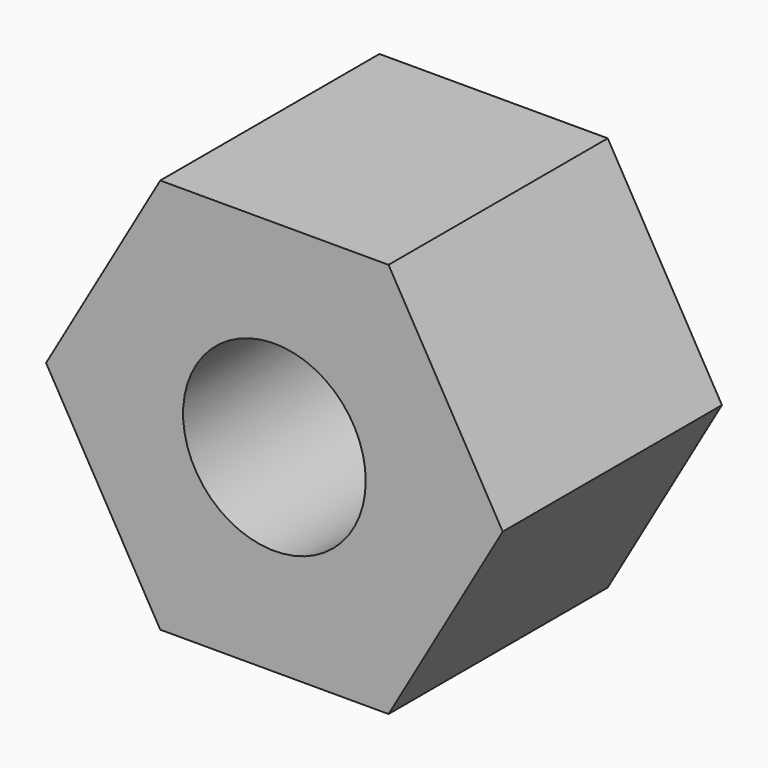
from build123d import *

# Parameters (mm, degrees)
F1_DEPTH = 19.05
F2_R     = 6.35
F3_DEPTH = 15.24


with BuildPart() as f1:
    # F0 (on Front) → F1 (new body)
    with BuildSketch(Plane.XZ):
        Polygon((7.9375, -13.748153), (15.875, 0), (7.9375, 13.748153), (-7.9375, 13.748153), (-15.875, 0), (-7.9375, -13.748153), align=None)
    extrude(amount=F1_DEPTH)

    # F2 (on face) → F3 (cut)
    with BuildSketch(Plane.XZ.offset(19.05)):
        Circle(F2_R)
    extrude(amount=-F3_DEPTH, mode=Mode.SUBTRACT)


solid = f1.part
